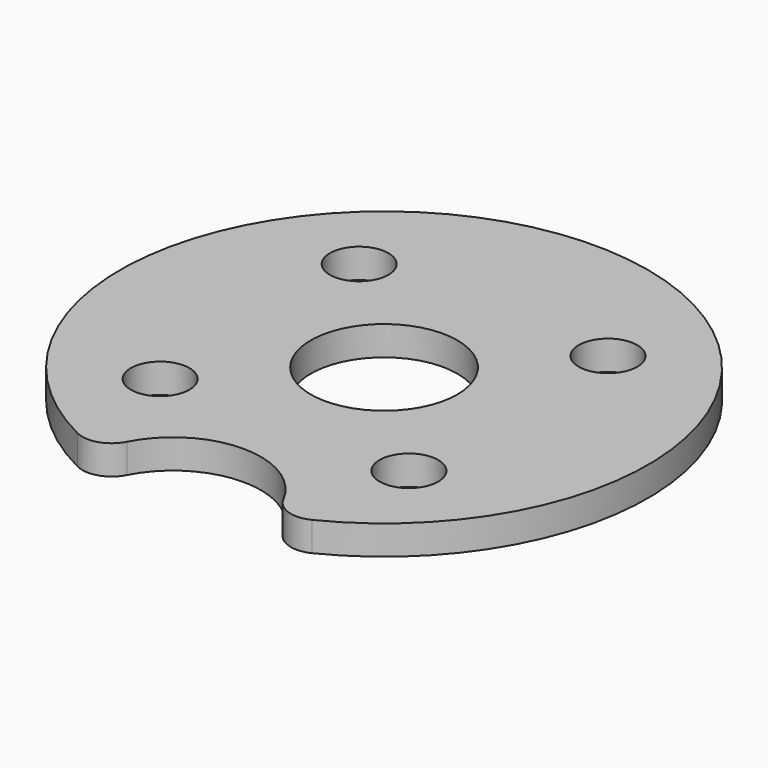
from build123d import *

# Parameters (mm, degrees)
F0_R     = 9
F0_R_2   = 1
F0_R_3   = 2.5
F2_R     = 3
F4_DEPTH = 1.001
F5_R     = 1


with BuildPart() as f3:
    # F3: sweep along a path in F1
    with BuildLine(Plane.XZ) as f3_path:
        Line((0, 0), (0, 1))
    # F0 (on Top) → F3 (sweep)
    with BuildSketch(Plane.XY):
        Circle(F0_R)
        with Locations((-4.2426406871, -4.2426406871)):
            Circle(F0_R_2, mode=Mode.SUBTRACT)
        with Locations((4.2426406871, -4.2426406871)):
            Circle(F0_R_2, mode=Mode.SUBTRACT)
        with Locations((-4.2426406871, 4.2426406871)):
            Circle(F0_R_2, mode=Mode.SUBTRACT)
        Circle(F0_R_3, mode=Mode.SUBTRACT)
        with Locations((4.2426406871, 4.2426406871)):
            Circle(F0_R_2, mode=Mode.SUBTRACT)
    sweep(path=f3_path.line)

    # F2 (on Top) → F4 (cut, through all)
    with BuildSketch(Plane.XY):
        with Locations((0, -9)):
            Circle(F2_R)
    extrude(amount=F4_DEPTH, mode=Mode.SUBTRACT)

    # F5
    f5_edges = [f3.edges().sort_by_distance(p)[0] for p in [
        (-2.95804, -8.5, 0.5),
        (2.95804, -8.5, 0.5),
    ]]
    fillet(f5_edges, radius=F5_R)


solid = f3.part
